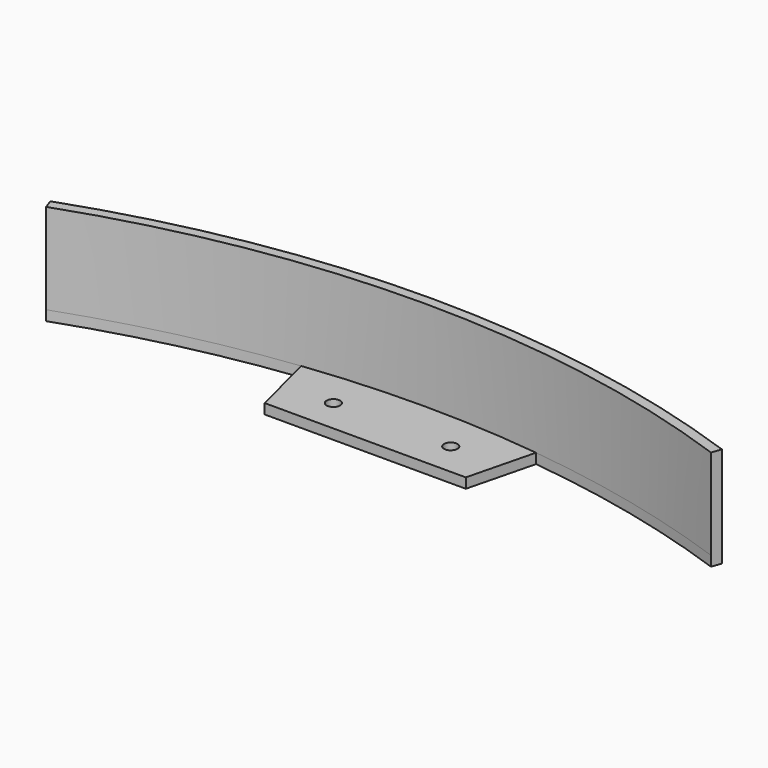
from build123d import *

# Parameters (mm, degrees)
SKETCH_R     = 2
PAD_DEPTH    = 3
PAD001_DEPTH = 27


with BuildPart() as part:
    # Sketch → Pad (new body)
    with BuildSketch(Plane.XY):
        with BuildLine():
            ThreePointArc((100.142058, 282.792447), (0, 300), (-100.142058, 282.792447))
            Line((-100.142058, 282.792447), (-99.140637, 279.964523))
            ThreePointArc((-35, 294.9305), (-67.486464, 289.23101), (-99.140637, 279.964523))
            Line((-35, 294.9305), (-30, 275))
            Line((-30, 275), (30, 275))
            Line((30, 275), (35, 294.9305))
            ThreePointArc((99.140637, 279.964523), (67.486464, 289.23101), (35, 294.9305))
            Line((100.142058, 282.792447), (99.140637, 279.964523))
        make_face()
        with Locations((-17.5, 285)):
            Circle(SKETCH_R, mode=Mode.SUBTRACT)
        with Locations((17.5, 285)):
            Circle(SKETCH_R, mode=Mode.SUBTRACT)
    extrude(amount=PAD_DEPTH)

    # Sketch001 (on Face12 of Pad) → Pad001 (join)
    with BuildSketch(Plane.XY.offset(3)):
        with BuildLine():
            ThreePointArc((100.142058, 282.792447), (0, 300), (-100.142058, 282.792447))
            Line((-100.142058, 282.792447), (-99.140637, 279.964523))
            ThreePointArc((99.140637, 279.964523), (0, 297), (-99.140637, 279.964523))
            Line((100.142058, 282.792447), (99.140637, 279.964523))
        make_face()
    extrude(amount=PAD001_DEPTH)


solid = part.part
